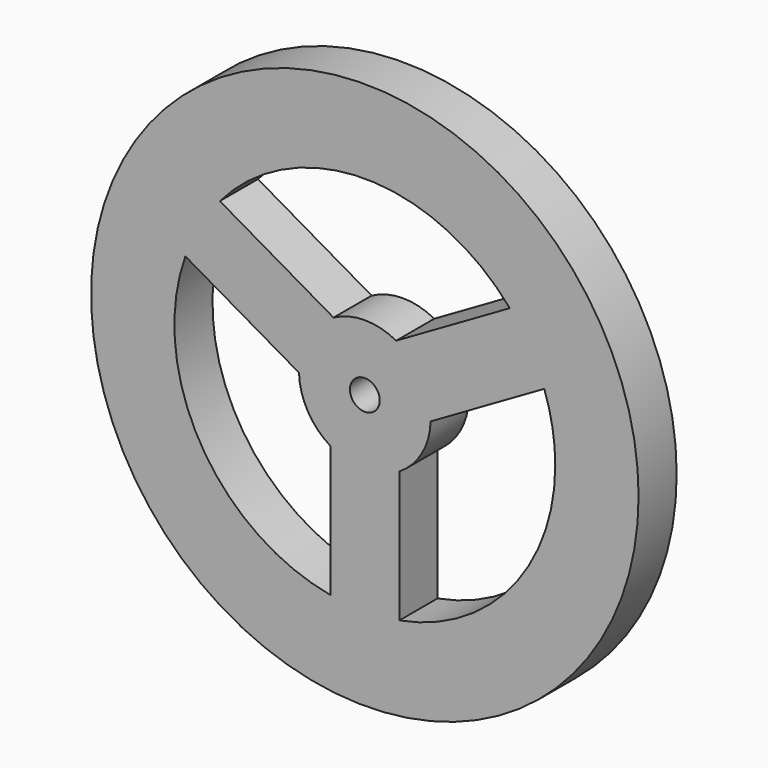
from build123d import *

# Parameters (mm, degrees)
F0_R     = 29.21
F1_DEPTH = 5.08
F2_R     = 1.5875
F3_DEPTH = 25.4


with BuildPart() as f1:
    # F0 (on Front) → F1 (new body)
    with BuildSketch(Plane.XZ):
        Circle(F0_R)
        with BuildLine():
            ThreePointArc((19.147667, 6.802149), (20.024772, 3.451217), (20.32, 0))
            ThreePointArc((20.32, 0), (15.616353, -13.001228), (3.683, -19.983441))
            ThreePointArc((3.683, -19.983441), (1.849173, -20.235685), (0, -20.32))
            ThreePointArc((0, -20.32), (-1.849173, -20.235685), (-3.683, -19.983441))
            ThreePointArc((-3.683, -19.983441), (-17.597636, -10.16), (-19.147667, 6.802149))
            ThreePointArc((-19.147667, 6.802149), (-17.597636, 10.16), (-15.464667, 13.181292))
            ThreePointArc((-15.464667, 13.181292), (0, 20.32), (15.464667, 13.181292))
            ThreePointArc((15.464667, 13.181292), (17.597636, 10.16), (19.147667, 6.802149))
        make_face(mode=Mode.SUBTRACT)
        with BuildLine():
            Line((-3.339771, 6.18098), (-15.464667, 13.181292))
            ThreePointArc((-15.464667, 13.181292), (-17.597636, 10.16), (-19.147667, 6.802149))
            Line((-19.147667, 6.802149), (-7.022771, -0.198163))
            ThreePointArc((-7.022771, -0.198163), (-6.084319, 3.512783), (-3.339771, 6.18098))
        make_face()
        with BuildLine():
            ThreePointArc((3.683, -5.982817), (6.084319, -3.512783), (7.022771, -0.198163))
            ThreePointArc((7.022771, -0.198163), (7.024868, -0.099091), (7.025567, 0))
            ThreePointArc((7.025567, 0), (6.034168, 3.59825), (3.339771, 6.18098))
            ThreePointArc((3.339771, 6.18098), (0, 7.025567), (-3.339771, 6.18098))
            ThreePointArc((-3.339771, 6.18098), (-6.084319, 3.512783), (-7.022771, -0.198163))
            ThreePointArc((-7.022771, -0.198163), (-6.084319, -3.512783), (-3.683, -5.982817))
            ThreePointArc((-3.683, -5.982817), (-1.913885, -6.759854), (0, -7.025567))
            ThreePointArc((0, -7.025567), (1.913885, -6.759854), (3.683, -5.982817))
        make_face()
        with BuildLine():
            ThreePointArc((0, -20.32), (1.849173, -20.235685), (3.683, -19.983441))
            Line((3.683, -19.983441), (3.683, -5.982817))
            ThreePointArc((3.683, -5.982817), (1.913885, -6.759854), (0, -7.025567))
            Line((0, -7.025567), (0, -20.32))
        make_face()
        with BuildLine():
            Line((7.022771, -0.198163), (19.147667, 6.802149))
            ThreePointArc((19.147667, 6.802149), (17.597636, 10.16), (15.464667, 13.181292))
            Line((15.464667, 13.181292), (3.339771, 6.18098))
            ThreePointArc((3.339771, 6.18098), (6.034168, 3.59825), (7.025567, 0))
            ThreePointArc((7.025567, 0), (7.024868, -0.099091), (7.022771, -0.198163))
        make_face()
        with BuildLine():
            ThreePointArc((-3.683, -19.983441), (-1.849173, -20.235685), (0, -20.32))
            Line((0, -20.32), (0, -7.025567))
            ThreePointArc((0, -7.025567), (-1.913885, -6.759854), (-3.683, -5.982817))
            Line((-3.683, -5.982817), (-3.683, -19.983441))
        make_face()
    extrude(amount=F1_DEPTH)

    # F2 (on face) → F3 (cut)
    with BuildSketch(Plane.XZ.offset(5.08)):
        Circle(F2_R)
    extrude(amount=-F3_DEPTH, mode=Mode.SUBTRACT)


solid = f1.part
